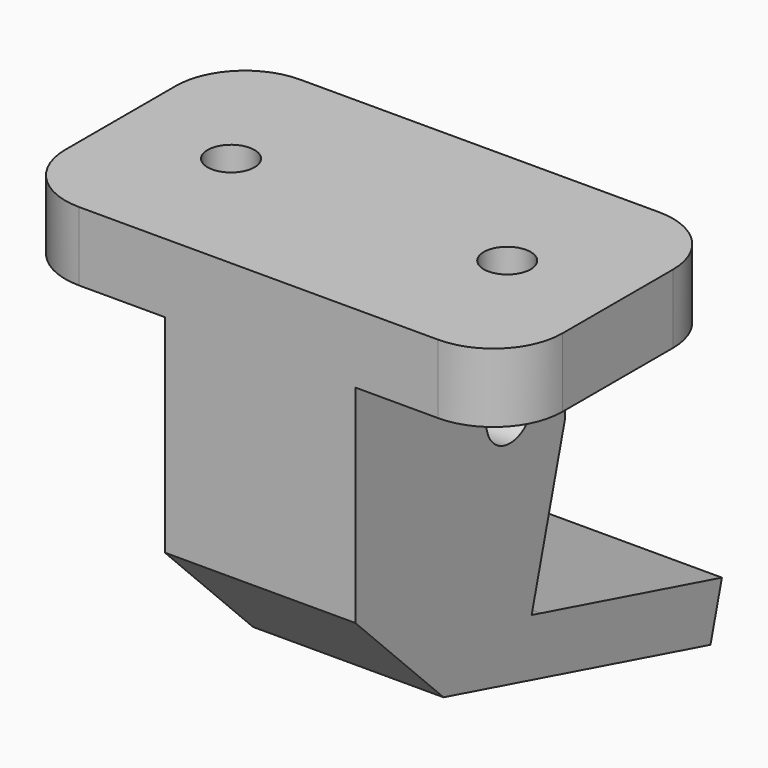
from build123d import *

# Parameters (mm, degrees)
BOX006_W             = 14
BOX006_H             = 10.5
BOX006_DEPTH         = 23
BOX005_W             = 36
BOX005_H             = 20
BOX005_DEPTH         = 5
SKETCH004_R          = 1.7
POCKET004_DEPTH      = 5
POCKET005_DEPTH      = 3
CYLINDER_R           = 2.15
CYLINDER_DEPTH       = 50
CYLINDER_PITCH_ANGLE = 90
BOX002_W             = 14
BOX002_H             = 11
BOX002_DEPTH         = 20.5
CHAMFER_SIZE         = 4
FILLET001_R          = 5
BOX003_W             = 14
BOX003_H             = 25
BOX003_DEPTH         = 4
BOX003_ROLL_ANGLE    = -15
BOX004_W             = 14
BOX004_H             = 2.5
BOX004_DEPTH         = 5
POCKET006_DEPTH      = 15
CHAMFER001_SIZE      = 7.99
FILLET002_R          = 5
SKETCH007_W          = 0.2
SKETCH007_H          = 34.551171
POCKET007_DEPTH      = 40


with BuildPart() as cube005:
    # Box006 → Box006 (new body)
    with BuildSketch(Plane(origin=(52, -20, -3), x_dir=(1, 0, 0), z_dir=(0, 0, 1))):
        with Locations((7, 5.25)):
            Rectangle(BOX006_W, BOX006_H)
    extrude(amount=BOX006_DEPTH)


with BuildPart() as fusion001:
    # Box005 → Box005 (new body)
    with BuildSketch(Plane(origin=(41, -20, 20), x_dir=(1, 0, 0), z_dir=(0, 0, 1))):
        with Locations((18, 10)):
            Rectangle(BOX005_W, BOX005_H)
    extrude(amount=BOX005_DEPTH)

    # Sketch004 → Pocket004 (cut)
    with BuildSketch(Plane(origin=(41, -20, 25), x_dir=(1, 0, 0), z_dir=(0, 0, 1))):
        with Locations((8, 10)):
            Circle(SKETCH004_R)
        with Locations((28, 10)):
            Circle(SKETCH004_R)
    extrude(amount=-POCKET004_DEPTH, mode=Mode.SUBTRACT)

    # Sketch005 → Pocket005 (cut)
    with BuildSketch(Plane(origin=(41, -20, 20), x_dir=(1, 0, 0), z_dir=(0, 0, -1))):
        Polygon((25.1, -8.325684), (25.1, -11.674316), (28, -13.348632), (30.9, -11.674316), (30.9, -8.325684), (28, -6.651368), align=None)
        Polygon((10.9, -11.674316), (10.9, -8.325684), (8, -6.651368), (5.1, -8.325684), (5.1, -11.674316), (8, -13.348632), align=None)
    extrude(amount=-POCKET005_DEPTH, mode=Mode.SUBTRACT)

    # Fusion001: union Cube005
    add(cube005.part)


with BuildPart() as cylinder:
    # Cylinder → Cylinder (new body)
    with BuildSketch(Plane.XY):
        Circle(CYLINDER_R)
    extrude(amount=CYLINDER_DEPTH)


with BuildPart() as cylinder_1:
    # Cylinder pitch: moved
    add(cylinder.part.rotate(Axis((0, 0, 0), (0, 1, 0)), CYLINDER_PITCH_ANGLE))


with BuildPart() as cylinder_2:
    # Cylinder placement: moved
    add(cylinder_1.part.moved(Location((31, -6, 12.9))))


with BuildPart() as fillet001:
    # Box002 → Box002 (new body)
    with BuildSketch(Plane(origin=(52, -12, -3), x_dir=(1, 0, 0), z_dir=(0, 0, 1))):
        with Locations((7, 5.5)):
            Rectangle(BOX002_W, BOX002_H)
    extrude(amount=BOX002_DEPTH)

    # Chamfer
    chamfer_edges = [fillet001.edges().sort_by_distance(p)[0] for p in [
        (59, -1, -3),
    ]]
    chamfer(chamfer_edges, length=CHAMFER_SIZE)

    # Fillet001
    fillet001_edges = [fillet001.edges().sort_by_distance(p)[0] for p in [
        (59, -1, 17.5),
    ]]
    fillet(fillet001_edges, radius=FILLET001_R)


with BuildPart() as cube002:
    # Box003 → Box003 (new body)
    with BuildSketch(Plane.XY):
        with Locations((7, 12.5)):
            Rectangle(BOX003_W, BOX003_H)
    extrude(amount=BOX003_DEPTH)


with BuildPart() as cube002_1:
    # Box003 roll: moved
    add(cube002.part.rotate(Axis((0, 0, 0), (1, 0, 0)), BOX003_ROLL_ANGLE))


with BuildPart() as cube002_2:
    # Box003 placement: moved
    add(cube002_1.part.moved(Location((52, -12, -3))))


with BuildPart() as soporte:
    # Box004 → Box004 (new body)
    with BuildSketch(Plane(origin=(52, -12, 14), x_dir=(1, 0, 0), z_dir=(0, 0, 1))):
        with Locations((7, 1.25)):
            Rectangle(BOX004_W, BOX004_H)
    extrude(amount=BOX004_DEPTH)

    # Fusion: union Fillet001, Cube002
    add(fillet001.part)
    add(cube002_2.part)

    # Cut001: cut Cylinder
    add(cylinder_2.part, mode=Mode.SUBTRACT)

    # Sketch006 → Pocket006 (cut)
    with BuildSketch(Plane.YZ.offset(66)):
        Polygon((13.183422, -5.606773), (-4.041064, -0.991486), (-0.407217, 12.570217), align=None)
    extrude(amount=-POCKET006_DEPTH, mode=Mode.SUBTRACT)

    # Fusion004: union Fusion001
    add(fusion001.part)

    # Chamfer001
    chamfer001_edges = [soporte.edges().sort_by_distance(p)[0] for p in [
        (59, -20, -3),
    ]]
    chamfer(chamfer001_edges, length=CHAMFER001_SIZE)

    # Fillet002
    fillet002_edges = [soporte.edges().sort_by_distance(p)[0] for p in [
        (41, -20, 22.5),
        (77, -20, 22.5),
        (77, 0, 22.5),
        (41, 0, 22.5),
    ]]
    fillet(fillet002_edges, radius=FILLET002_R)

    # Sketch007 → Pocket007 (cut)
    with BuildSketch(Plane.XZ.offset(20)):
        with Locations((52.1, 2.724414)):
            Rectangle(SKETCH007_W, SKETCH007_H)
    extrude(amount=-POCKET007_DEPTH, mode=Mode.SUBTRACT)


solid = soporte.part
